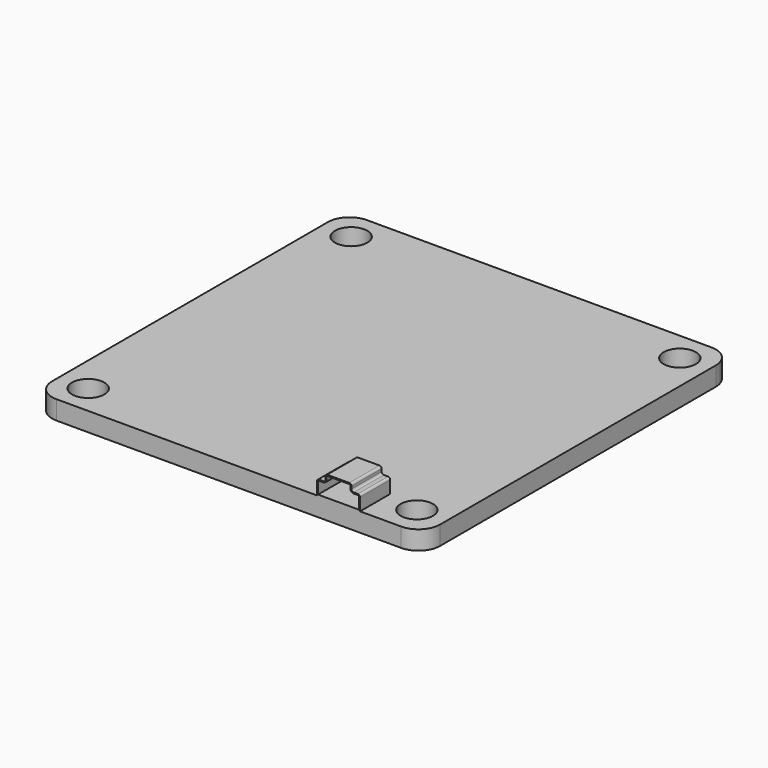
from build123d import *

# Parameters (mm, degrees)
F0_R     = 1.5
F1_DEPTH = 1.75
F3_DEPTH = 3
F5_DEPTH = 0.5
F6_R     = 0.325
F7_DEPTH = 25


with BuildPart() as f1:
    # F0 (on Top) → F1 (new body)
    with BuildSketch(Plane.XY):
        with BuildLine():
            ThreePointArc((18, 16), (17.4142135624, 17.4142135624), (16, 18))
            Line((16, 18), (-16, 18))
            ThreePointArc((-16, 18), (-17.4142135624, 17.4142135624), (-18, 16))
            Line((-18, 16), (-18, -16))
            ThreePointArc((-18, -16), (-17.4142135624, -17.4142135624), (-16, -18))
            Line((-16, -18), (16, -18))
            ThreePointArc((16, -18), (17.4142135624, -17.4142135624), (18, -16))
            Line((18, -16), (18, 16))
        make_face()
        with Locations((-15.25, -15.25)):
            Circle(F0_R, mode=Mode.SUBTRACT)
        with Locations((15.25, -15.25)):
            Circle(F0_R, mode=Mode.SUBTRACT)
        with Locations((-15.25, 15.25)):
            Circle(F0_R, mode=Mode.SUBTRACT)
        with Locations((15.25, 15.25)):
            Circle(F0_R, mode=Mode.SUBTRACT)
    extrude(amount=F1_DEPTH)

    # F2 (on face) → F3 (join)
    with BuildSketch(Plane.XZ.offset(18)):
        with BuildLine():
            Line((8.1779490098, 2.9079255508), (8.1779490098, 1.75))
            Line((8.1779490098, 1.75), (12.1779490098, 1.75))
            Line((12.1779490098, 1.75), (12.1779490098, 2.9079255508))
            ThreePointArc((12.1779490098, 2.9079255508), (12.1193703661, 3.049346907), (11.9779490098, 3.1079255508))
            Line((11.9779490098, 3.1079255508), (11.5779490098, 3.1079255508))
            ThreePointArc((11.5779490098, 3.1079255508), (11.4365276536, 3.1665041945), (11.3779490098, 3.3079255508))
            Line((11.3779490098, 3.3079255508), (11.3779490098, 3.55))
            ThreePointArc((11.3779490098, 3.55), (11.3193703661, 3.6914213562), (11.1779490098, 3.75))
            Line((11.1779490098, 3.75), (9.1779490098, 3.75))
            ThreePointArc((9.1779490098, 3.75), (9.0365276536, 3.6914213562), (8.9779490098, 3.55))
            Line((8.9779490098, 3.55), (8.9779490098, 3.3079255508))
            ThreePointArc((8.9779490098, 3.3079255508), (8.9193703661, 3.1665041945), (8.7779490098, 3.1079255508))
            Line((8.7779490098, 3.1079255508), (8.3779490098, 3.1079255508))
            ThreePointArc((8.3779490098, 3.1079255508), (8.2365276536, 3.049346907), (8.1779490098, 2.9079255508))
        make_face()
        with BuildLine():
            Line((12.0779490098, 1.85), (8.2779490098, 1.85))
            Line((8.2779490098, 1.85), (8.2779490098, 2.9079255508))
            ThreePointArc((8.2779490098, 2.9079255508), (8.3072383317, 2.9786362289), (8.3779490098, 3.0079255508))
            Line((8.3779490098, 3.0079255508), (8.7779490098, 3.0079255508))
            ThreePointArc((8.7779490098, 3.0079255508), (8.9900810442, 3.0957935164), (9.0779490098, 3.3079255508))
            Line((9.0779490098, 3.3079255508), (9.0779490098, 3.55))
            ThreePointArc((9.0779490098, 3.55), (9.1072383317, 3.6207106781), (9.1779490098, 3.65))
            Line((9.1779490098, 3.65), (11.1779490098, 3.65))
            ThreePointArc((11.1779490098, 3.65), (11.248659688, 3.6207106781), (11.2779490098, 3.55))
            Line((11.2779490098, 3.55), (11.2779490098, 3.3079255508))
            ThreePointArc((11.2779490098, 3.3079255508), (11.3658169755, 3.0957935164), (11.5779490098, 3.0079255508))
            Line((11.5779490098, 3.0079255508), (11.9779490098, 3.0079255508))
            ThreePointArc((11.9779490098, 3.0079255508), (12.048659688, 2.9786362289), (12.0779490098, 2.9079255508))
            Line((12.0779490098, 2.9079255508), (12.0779490098, 1.85))
        make_face(mode=Mode.SUBTRACT)
    extrude(amount=-F3_DEPTH)

    # F4 (on face) → F5 (join)
    with BuildSketch(Plane(origin=(0, -15, 0), x_dir=(-1, 0, 0), z_dir=(0, 1, 0))):
        with BuildLine():
            Line((-12.1779490098, 1.75), (-8.1779490098, 1.75))
            Line((-8.1779490098, 1.75), (-8.1779490098, 2.9079255508))
            ThreePointArc((-8.1779490098, 2.9079255508), (-8.2365276536, 3.049346907), (-8.3779490098, 3.1079255508))
            Line((-8.3779490098, 3.1079255508), (-8.7779490098, 3.1079255508))
            ThreePointArc((-8.7779490098, 3.1079255508), (-8.9193703661, 3.1665041945), (-8.9779490098, 3.3079255508))
            Line((-8.9779490098, 3.3079255508), (-8.9779490098, 3.55))
            ThreePointArc((-8.9779490098, 3.55), (-9.0365276536, 3.6914213562), (-9.1779490098, 3.75))
            Line((-9.1779490098, 3.75), (-11.1779490098, 3.75))
            ThreePointArc((-11.1779490098, 3.75), (-11.3193703661, 3.6914213562), (-11.3779490098, 3.55))
            Line((-11.3779490098, 3.55), (-11.3779490098, 3.3079255508))
            ThreePointArc((-11.3779490098, 3.3079255508), (-11.4365276536, 3.1665041945), (-11.5779490098, 3.1079255508))
            Line((-11.5779490098, 3.1079255508), (-11.9779490098, 3.1079255508))
            ThreePointArc((-11.9779490098, 3.1079255508), (-12.1193703661, 3.049346907), (-12.1779490098, 2.9079255508))
            Line((-12.1779490098, 2.9079255508), (-12.1779490098, 1.75))
        make_face()
        with BuildLine():
            Line((-8.2779490098, 2.9079255508), (-8.2779490098, 1.85))
            Line((-8.2779490098, 1.85), (-12.0779490098, 1.85))
            Line((-12.0779490098, 1.85), (-12.0779490098, 2.9079255508))
            ThreePointArc((-12.0779490098, 2.9079255508), (-12.048659688, 2.9786362289), (-11.9779490098, 3.0079255508))
            Line((-11.9779490098, 3.0079255508), (-11.5779490098, 3.0079255508))
            ThreePointArc((-11.5779490098, 3.0079255508), (-11.3658169755, 3.0957935164), (-11.2779490098, 3.3079255508))
            Line((-11.2779490098, 3.3079255508), (-11.2779490098, 3.55))
            ThreePointArc((-11.2779490098, 3.55), (-11.248659688, 3.6207106781), (-11.1779490098, 3.65))
            Line((-11.1779490098, 3.65), (-9.1779490098, 3.65))
            ThreePointArc((-9.1779490098, 3.65), (-9.1072383317, 3.6207106781), (-9.0779490098, 3.55))
            Line((-9.0779490098, 3.55), (-9.0779490098, 3.3079255508))
            ThreePointArc((-9.0779490098, 3.3079255508), (-8.9900810442, 3.0957935164), (-8.7779490098, 3.0079255508))
            Line((-8.7779490098, 3.0079255508), (-8.3779490098, 3.0079255508))
            ThreePointArc((-8.3779490098, 3.0079255508), (-8.3072383317, 2.9786362289), (-8.2779490098, 2.9079255508))
        make_face(mode=Mode.SUBTRACT)
        with BuildLine():
            Line((-12.0779490098, 1.85), (-8.2779490098, 1.85))
            Line((-8.2779490098, 1.85), (-8.2779490098, 2.9079255508))
            ThreePointArc((-8.2779490098, 2.9079255508), (-8.3072383317, 2.9786362289), (-8.3779490098, 3.0079255508))
            Line((-8.3779490098, 3.0079255508), (-8.7779490098, 3.0079255508))
            ThreePointArc((-8.7779490098, 3.0079255508), (-8.9900810442, 3.0957935164), (-9.0779490098, 3.3079255508))
            Line((-9.0779490098, 3.3079255508), (-9.0779490098, 3.55))
            ThreePointArc((-9.0779490098, 3.55), (-9.1072383317, 3.6207106781), (-9.1779490098, 3.65))
            Line((-9.1779490098, 3.65), (-11.1779490098, 3.65))
            ThreePointArc((-11.1779490098, 3.65), (-11.248659688, 3.6207106781), (-11.2779490098, 3.55))
            Line((-11.2779490098, 3.55), (-11.2779490098, 3.3079255508))
            ThreePointArc((-11.2779490098, 3.3079255508), (-11.3658169755, 3.0957935164), (-11.5779490098, 3.0079255508))
            Line((-11.5779490098, 3.0079255508), (-11.9779490098, 3.0079255508))
            ThreePointArc((-11.9779490098, 3.0079255508), (-12.048659688, 2.9786362289), (-12.0779490098, 2.9079255508))
            Line((-12.0779490098, 2.9079255508), (-12.0779490098, 1.85))
        make_face()
    extrude(amount=F5_DEPTH)

    # F6 (on face) → F7 (cut)
    with BuildSketch(Plane(origin=(0, -14.5, 0), x_dir=(-1, 0, 0), z_dir=(0, 1, 0))):
        with Locations((-11.0529490098, 2.6510155117)):
            Circle(F6_R)
        with Locations((-10.1779490098, 2.6510155117)):
            Circle(F6_R)
        with Locations((-9.3029490098, 2.6510155117)):
            Circle(F6_R)
    extrude(amount=-F7_DEPTH, mode=Mode.SUBTRACT)


solid = f1.part
